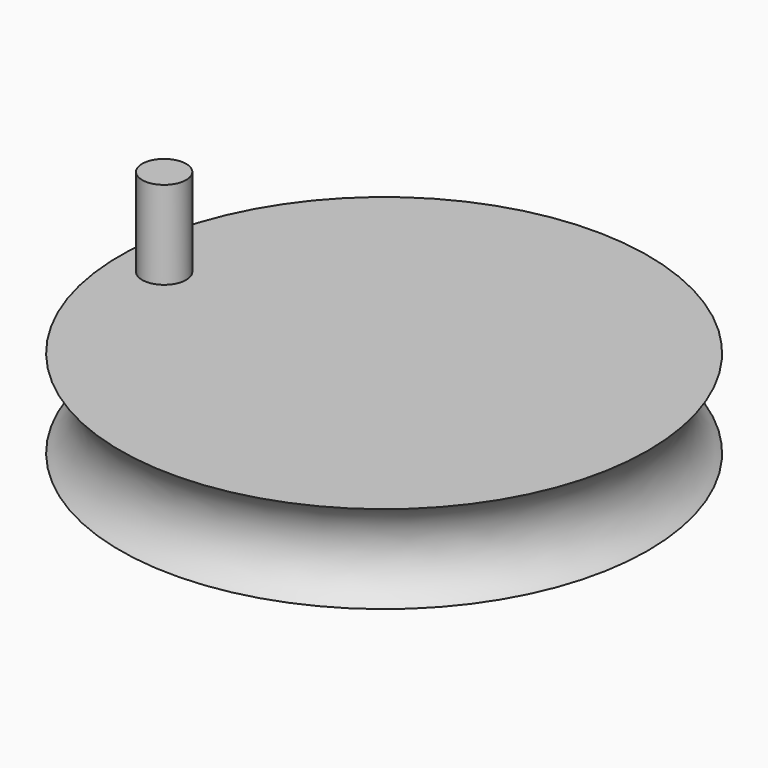
from build123d import *

# Parameters (mm, degrees)
F2_R     = 5
F3_DEPTH = 20
F4_R     = 5
F5_DEPTH = 30


with BuildPart() as f1:
    # F0 (on Front) → F1 (revolve)
    with BuildSketch(Plane.XZ):
        with BuildLine():
            Line((0, 70), (0, 0))
            Line((0, 0), (5, 0))
            Line((5, 0), (5, 20))
            Line((5, 20), (60, 20))
            ThreePointArc((60, 20), (54.662927, 30), (60, 40))
            Line((60, 40), (5, 40))
            Line((5, 40), (5, 70))
            Line((5, 70), (0, 70))
        make_face()
    revolve(axis=Axis((0, 0, 35), (0, 0, 1)))

    # F2 (on face) → F3 (join)
    with BuildSketch(Plane.XY.offset(40)):
        with Locations((-50, 0)):
            Circle(F2_R)
    extrude(amount=F3_DEPTH)

    # F4 (on face) → F5 (cut)
    with BuildSketch(Plane.XY.offset(70)):
        Circle(F4_R)
    extrude(amount=-F5_DEPTH, mode=Mode.SUBTRACT)


solid = f1.part
